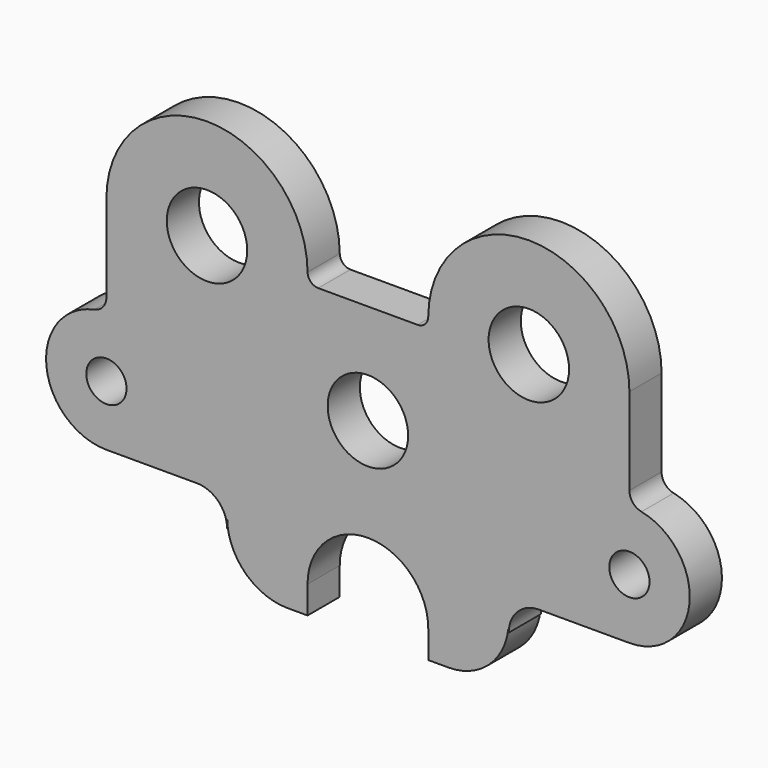
from build123d import *

# Parameters (mm, degrees)
F0_R     = 7.9375
F0_R_2   = 12.7
F0_R_3   = 6.35
F1_DEPTH = 12.7


with BuildPart() as f1:
    # F0 (on Front) → F1 (new body)
    with BuildSketch(Plane.XZ):
        with BuildLine():
            Line((82.55, 7.45639), (82.55, 34.925))
            ThreePointArc((82.55, 34.925), (50.896024, 66.674855), (19.050581, 35.117047))
            ThreePointArc((19.050581, 35.117047), (18.051201, 32.734953), (15.663106, 31.75))
            Line((15.663106, 31.75), (0, 31.75))
            Line((0, 31.75), (-15.663106, 31.75))
            ThreePointArc((-15.663106, 31.75), (-18.051201, 32.734953), (-19.050581, 35.117047))
            ThreePointArc((-19.050581, 35.117047), (-50.896024, 66.674855), (-82.55, 34.925))
            Line((-82.55, 34.925), (-82.55, 7.45639))
            ThreePointArc((-82.55, 7.45639), (-83.623483, 4.44432), (-86.36, 2.790112))
            ThreePointArc((-86.36, 2.790112), (-101.503534, -17.789696), (-82.55, -34.925))
            Line((-82.55, -34.925), (-53.975, -34.925))
            ThreePointArc((-53.975, -34.925), (-47.239808, -37.714808), (-44.45, -44.45))
            Line((-44.45, -44.45), (-44.45, -41.275))
            ThreePointArc((-44.45, -41.275), (-38.870384, -54.745384), (-25.4, -60.325))
            Line((-25.4, -60.325), (-19.05, -60.325))
            Line((-19.05, -60.325), (-19.05, -51.58833))
            ThreePointArc((-19.05, -51.58833), (0, -32.53833), (19.05, -51.58833))
            Line((19.05, -51.58833), (19.05, -60.325))
            Line((19.05, -60.325), (25.4, -60.325))
            ThreePointArc((25.4, -60.325), (38.870384, -54.745384), (44.45, -41.275))
            Line((44.45, -41.275), (44.45, -44.45))
            ThreePointArc((44.45, -44.45), (47.239808, -37.714808), (53.975, -34.925))
            Line((53.975, -34.925), (82.55, -34.925))
            ThreePointArc((82.55, -34.925), (101.503534, -17.789696), (86.36, 2.790112))
            ThreePointArc((86.36, 2.790112), (83.623483, 4.44432), (82.55, 7.45639))
        make_face()
        with Locations((-82.55, -15.875)):
            Circle(F0_R, mode=Mode.SUBTRACT)
        Circle(F0_R_2, mode=Mode.SUBTRACT)
        with Locations((82.55, -15.875)):
            Circle(F0_R, mode=Mode.SUBTRACT)
        with Locations((-50.8, 34.925)):
            Circle(F0_R_2, mode=Mode.SUBTRACT)
        with Locations((50.8, 34.925)):
            Circle(F0_R_2, mode=Mode.SUBTRACT)
        with Locations((-82.55, -15.875)):
            Circle(F0_R)
        with Locations((-82.55, -15.875)):
            Circle(F0_R_3, mode=Mode.SUBTRACT)
        with Locations((82.55, -15.875)):
            Circle(F0_R)
        with Locations((82.55, -15.875)):
            Circle(F0_R_3, mode=Mode.SUBTRACT)
    extrude(amount=F1_DEPTH)


solid = f1.part
